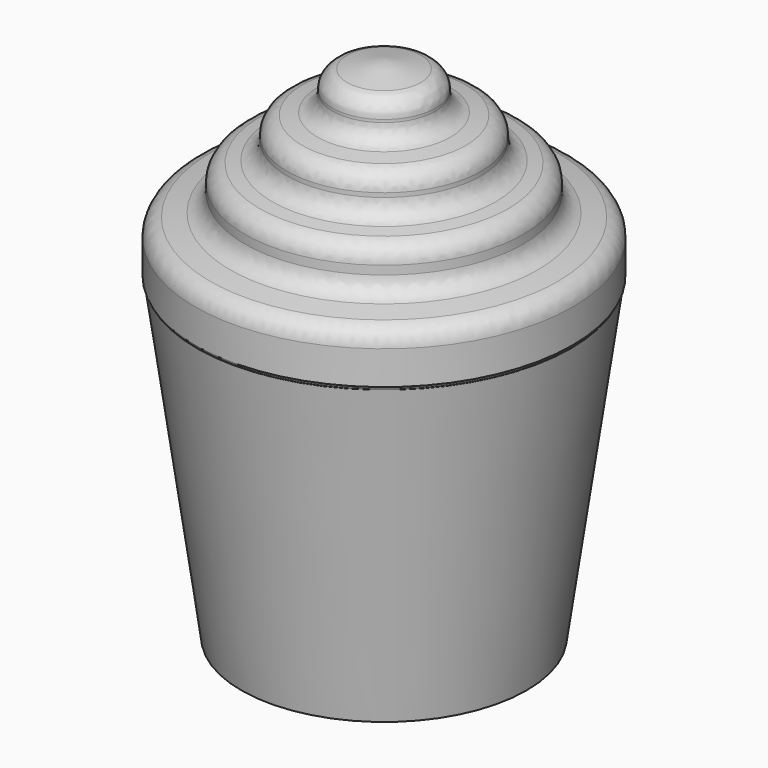
from build123d import *

# Parameters (mm, degrees)
F0_R     = 47.5
F1_DEPTH = 105
F1_TAPER = -8
F4_R     = 6


with BuildPart() as f1:
    # F0 (on Top) → F1 (new body)
    with BuildSketch(Plane.XY):
        Circle(F0_R)
    extrude(amount=F1_DEPTH, taper=F1_TAPER)


with BuildPart() as f3:
    # F2 (on Front) → F3 (revolve)
    with BuildSketch(Plane.XZ):
        Polygon((0, 168.9745634794), (0, 105.0703153014), (62.2216574848, 105.0703153014), (62.7710819244, 106.0661301017), (62.7710819244, 122.2739815712), (46.2885163724, 125.2957880497), (46.2885163724, 138.2071226835), (32.2783440351, 140.6795084476), (32.2783440351, 152.2172987461), (17.1693339944, 154.6896696091), (17.1693339944, 165.6780540943), align=None)
    revolve(axis=Axis((0, 0, 121.7245608568), (0, 0, 1)))

    # F4
    f4_edges = [f3.edges().sort_by_distance(p)[0] for p in [
        (-17.169334, 0, 154.68967),
        (-32.278344, 0, 152.217299),
        (-32.278344, 0, 140.679508),
        (-46.288516, 0, 138.207123),
        (-46.288516, 0, 125.295788),
        (-62.771082, 0, 122.273982),
        (-17.169334, 0, 165.678054),
    ]]
    fillet(f4_edges, radius=F4_R)


solid = Compound([f1.part, f3.part])
